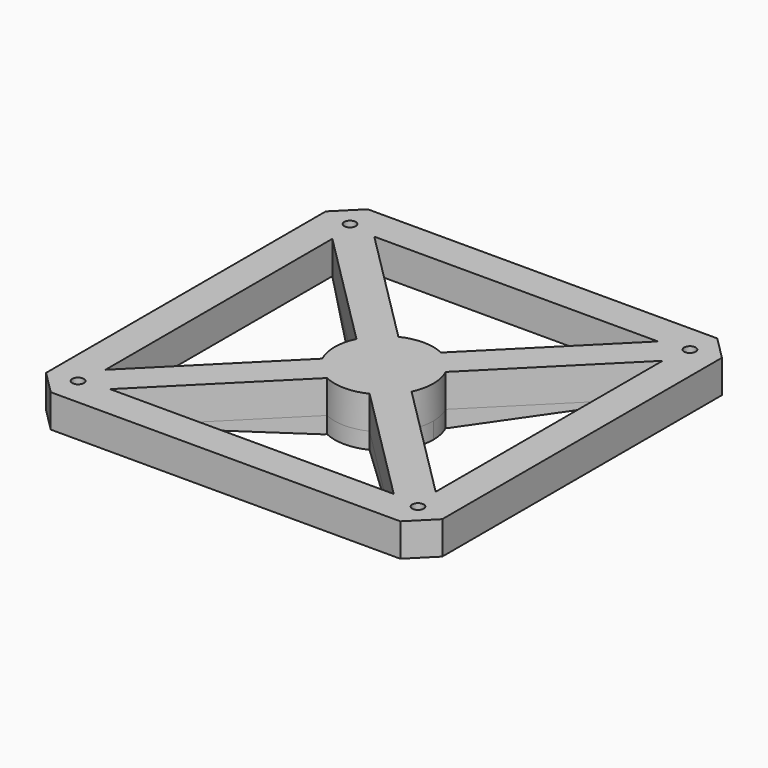
from build123d import *

# Parameters (mm, degrees)
SKETCH031_R        = 1.75
PAD018_DEPTH       = 10
POCKET003_DEPTH    = 2.6
PAD019_DEPTH       = 10
SKETCH034_R        = 15
PAD020_DEPTH       = 5
SKETCH035_R        = 4
POCKET004_DEPTH    = 12.7
SKETCH036_R        = 2
POCKET005_DEPTH    = 5
PAD021_DEPTH       = 5
POLARPATTERN_COUNT = 4


with BuildPart() as part:
    # Sketch031 (on Face1 of Binder005) → Pad018 (new body)
    with BuildSketch(Plane(origin=(0, 0, 0), x_dir=(1, 0, 0), z_dir=(0, 0, -1))):
        Polygon((-60.104076, 53.033009), (-53.033009, 60.104076), (53.033009, 60.104076), (60.104076, 53.033009), (60.104076, -53.033009), (53.033009, -60.104076), (-53.033009, -60.104076), (-60.104076, -53.033009), align=None)
        with Locations((-51.568542, -51.568542)):
            Circle(SKETCH031_R, mode=Mode.SUBTRACT)
        with Locations((51.568542, -51.568542)):
            Circle(SKETCH031_R, mode=Mode.SUBTRACT)
        with Locations((51.568542, 51.568542)):
            Circle(SKETCH031_R, mode=Mode.SUBTRACT)
        with Locations((-51.568542, 51.568542)):
            Circle(SKETCH031_R, mode=Mode.SUBTRACT)
        Polygon((-43.033009, 50.104076), (43.033009, 50.104076), (50.104076, 43.033009), (50.104076, -43.033009), (43.033009, -50.104076), (-43.033009, -50.104076), (-50.104076, -43.033009), (-50.104076, 43.033009), align=None, mode=Mode.SUBTRACT)
    extrude(amount=PAD018_DEPTH)

    # Sketch032 (on Face22 of Pad018) → Pocket003 (cut)
    with BuildSketch(Plane(origin=(0, 0, -10), x_dir=(1, 0, 0), z_dir=(0, 0, -1))):
        Polygon((-48.104441, -51.568542), (-49.836492, -48.568542), (-53.300593, -48.568542), (-55.032644, -51.568542), (-53.300593, -54.568542), (-49.836492, -54.568542), align=None)
        Polygon((53.300593, -48.568542), (49.836492, -48.568542), (48.104441, -51.568542), (49.836492, -54.568542), (53.300593, -54.568542), (55.032644, -51.568542), align=None)
        Polygon((53.300593, 54.568542), (49.836492, 54.568542), (48.104441, 51.568542), (49.836492, 48.568542), (53.300593, 48.568542), (55.032644, 51.568542), align=None)
        Polygon((-49.836492, 54.568542), (-53.300593, 54.568542), (-55.032644, 51.568542), (-53.300593, 48.568542), (-49.836492, 48.568542), (-48.104441, 51.568542), align=None)
    extrude(amount=-POCKET003_DEPTH, mode=Mode.SUBTRACT)

    # Sketch033 (on Face5 of Pocket003) → Pad019 (join)
    with BuildSketch(Plane(origin=(0, 0, -10), x_dir=(1, 0, 0), z_dir=(0, 0, -1))):
        with BuildLine():
            Line((-43.033009, -50.104076), (-6.464466, -13.535534))
            ThreePointArc((-6.464466, -13.535534), (0, -15), (6.464466, -13.535534))
            Line((43.033009, -50.104076), (6.464466, -13.535534))
            Line((50.104076, -43.033009), (43.033009, -50.104076))
            Line((50.104076, -43.033009), (13.535534, -6.464466))
            ThreePointArc((13.535534, -6.464466), (15, 0), (13.535534, 6.464466))
            Line((50.104076, 43.033009), (13.535534, 6.464466))
            Line((43.033009, 50.104076), (50.104076, 43.033009))
            Line((43.033009, 50.104076), (6.464466, 13.535534))
            ThreePointArc((6.464466, 13.535534), (0, 15), (-6.464466, 13.535534))
            Line((-43.033009, 50.104076), (-6.464466, 13.535534))
            Line((-50.104076, 43.033009), (-43.033009, 50.104076))
            Line((-50.104076, 43.033009), (-13.535534, 6.464466))
            ThreePointArc((-13.535534, 6.464466), (-15, 0), (-13.535534, -6.464466))
            Line((-50.104076, -43.033009), (-13.535534, -6.464466))
            Line((-43.033009, -50.104076), (-50.104076, -43.033009))
        make_face()
    extrude(amount=-PAD019_DEPTH)

    # Sketch034 (on Face32 of Pad019) → Pad020 (join)
    with BuildSketch(Plane(origin=(0, 0, -10), x_dir=(1, 0, 0), z_dir=(0, 0, -1))):
        Circle(SKETCH034_R)
    extrude(amount=PAD020_DEPTH)

    # Sketch035 (on Face65 of Pad020) → Pocket004 (cut)
    with BuildSketch(Plane(origin=(0, 0, -15), x_dir=(1, 0, 0), z_dir=(0, 0, -1))):
        Circle(SKETCH035_R)
    extrude(amount=-POCKET004_DEPTH, mode=Mode.SUBTRACT)

    # Sketch036 (on Face65 of Pocket004) → Pocket005 (cut)
    with BuildSketch(Plane(origin=(0, 0, -15), x_dir=(1, 0, 0), z_dir=(0, 0, -1))):
        with Locations((13, 0)):
            Circle(SKETCH036_R)
    extrude(amount=-POCKET005_DEPTH, mode=Mode.SUBTRACT)

    # Sketch039 (on DatumPlane) → Pad021 (join, symmetric)
    with BuildSketch(Plane(origin=(53.235209, -53.235209, -8.333333), x_dir=(0.707107, -0.707107, 0), z_dir=(-0.707107, -0.707107, 0))):
        Polygon((-9.42809, -1.666667), (-63.285955, -1.666667), (-63.285955, -6.666667), (-60.285955, -6.666667), align=None)
    pad021 = extrude(amount=PAD021_DEPTH, both=True)

    # PolarPattern: Pad021 ×4 about axis
    polarpattern_axis = Axis((0, 0, 0), (0, 0, 1))
    for i in range(1, POLARPATTERN_COUNT):
        add(pad021.rotate(polarpattern_axis, i * 360 / POLARPATTERN_COUNT))


solid = part.part
